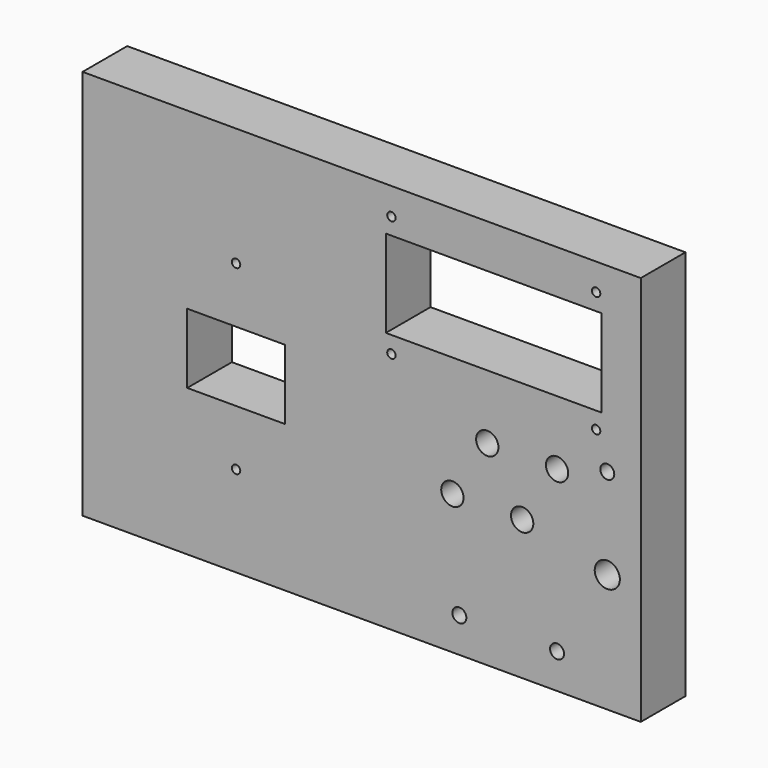
from build123d import *

# Parameters (mm, degrees)
F0_R     = 1.905
F0_W     = 44.45
F0_H     = 31.75
F0_R_2   = 3.175
F0_R_3   = 5.08
F0_R_4   = 5.715
F0_W_2   = 98.2218
F0_H_2   = 39.8018
F1_DEPTH = 25.4


with BuildPart() as f1:
    # F0 (on Front) → F1 (new body)
    with BuildSketch(Plane.XZ):
        Polygon((17.78, 0), (0, 0), (0, -17.78), (0, -160.02), (0, -177.8), (17.78, -177.8), (139.7, -177.8), (228.6, -177.8), (236.22, -177.8), (254, -177.8), (254, -160.02), (254, -95.25), (254, -17.78), (254, 0), (236.22, 0), (139.7, 0), align=None)
        with Locations((69.85, -136.525)):
            Circle(F0_R, mode=Mode.SUBTRACT)
        with Locations((69.85, -95.25)):
            Rectangle(F0_W, F0_H, mode=Mode.SUBTRACT)
        with Locations((171.45, -161.925)):
            Circle(F0_R_2, mode=Mode.SUBTRACT)
        with Locations((215.9, -161.925)):
            Circle(F0_R_2, mode=Mode.SUBTRACT)
        with Locations((168.275, -114.3)):
            Circle(F0_R_3, mode=Mode.SUBTRACT)
        with Locations((200.025, -114.3)):
            Circle(F0_R_3, mode=Mode.SUBTRACT)
        with Locations((238.76, -123.825)):
            Circle(F0_R_4, mode=Mode.SUBTRACT)
        with Locations((69.85, -53.975)):
            Circle(F0_R, mode=Mode.SUBTRACT)
        with Locations((140.5382, -67.31)):
            Circle(F0_R, mode=Mode.SUBTRACT)
        with Locations((184.15, -88.9)):
            Circle(F0_R_3, mode=Mode.SUBTRACT)
        with Locations((215.9, -88.9)):
            Circle(F0_R_3, mode=Mode.SUBTRACT)
        with Locations((238.76, -82.55)):
            Circle(F0_R_2, mode=Mode.SUBTRACT)
        with Locations((233.68, -67.31)):
            Circle(F0_R, mode=Mode.SUBTRACT)
        with Locations((187.1091, -39.7891)):
            Rectangle(F0_W_2, F0_H_2, mode=Mode.SUBTRACT)
        with Locations((140.5382, -12.2682)):
            Circle(F0_R, mode=Mode.SUBTRACT)
        with Locations((233.68, -12.2682)):
            Circle(F0_R, mode=Mode.SUBTRACT)
        Polygon((17.78, 0), (0, 0), (0, -17.78), (0, -160.02), (0, -177.8), (17.78, -177.8), (139.7, -177.8), (228.6, -177.8), (236.22, -177.8), (254, -177.8), (254, -160.02), (254, -95.25), (254, -17.78), (254, 0), (236.22, 0), (139.7, 0), align=None)
        with Locations((69.85, -136.525)):
            Circle(F0_R, mode=Mode.SUBTRACT)
        with Locations((69.85, -95.25)):
            Rectangle(F0_W, F0_H, mode=Mode.SUBTRACT)
        with Locations((171.45, -161.925)):
            Circle(F0_R_2, mode=Mode.SUBTRACT)
        with Locations((215.9, -161.925)):
            Circle(F0_R_2, mode=Mode.SUBTRACT)
        with Locations((168.275, -114.3)):
            Circle(F0_R_3, mode=Mode.SUBTRACT)
        with Locations((200.025, -114.3)):
            Circle(F0_R_3, mode=Mode.SUBTRACT)
        with Locations((238.76, -123.825)):
            Circle(F0_R_4, mode=Mode.SUBTRACT)
        with Locations((69.85, -53.975)):
            Circle(F0_R, mode=Mode.SUBTRACT)
        with Locations((140.5382, -67.31)):
            Circle(F0_R, mode=Mode.SUBTRACT)
        with Locations((184.15, -88.9)):
            Circle(F0_R_3, mode=Mode.SUBTRACT)
        with Locations((215.9, -88.9)):
            Circle(F0_R_3, mode=Mode.SUBTRACT)
        with Locations((238.76, -82.55)):
            Circle(F0_R_2, mode=Mode.SUBTRACT)
        with Locations((233.68, -67.31)):
            Circle(F0_R, mode=Mode.SUBTRACT)
        with Locations((187.1091, -39.7891)):
            Rectangle(F0_W_2, F0_H_2, mode=Mode.SUBTRACT)
        with Locations((140.5382, -12.2682)):
            Circle(F0_R, mode=Mode.SUBTRACT)
        with Locations((233.68, -12.2682)):
            Circle(F0_R, mode=Mode.SUBTRACT)
    extrude(amount=F1_DEPTH)


solid = f1.part
